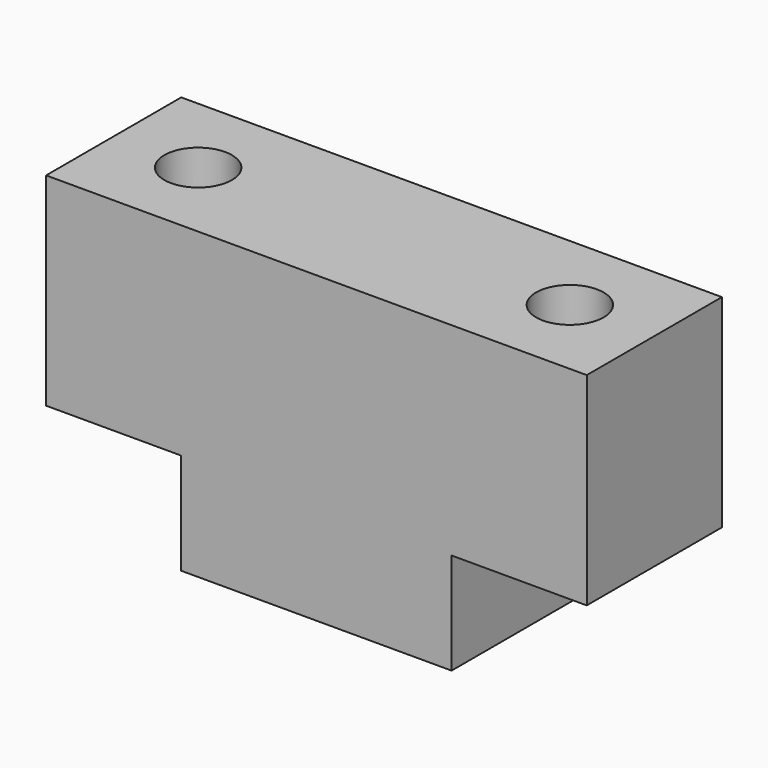
from build123d import *

# Parameters (mm, degrees)
F0_W     = 8
F0_H     = 3
F1_DEPTH = 2.5
F2_R     = 1
F3_DEPTH = 9.001


with BuildPart() as f1:
    # F0 (on Front) → F1 (new body, symmetric)
    with BuildSketch(Plane.XZ):
        Polygon((8, -3), (8, 3), (-8, 3), (-8, -3), (-4, -3), (4, -3), align=None)
        with Locations((0, -4.5)):
            Rectangle(F0_W, F0_H)
    extrude(amount=F1_DEPTH, both=True)

    # F2 (on face) → F3 (cut, through all)
    with BuildSketch(Plane.XY.offset(3)):
        with Locations((-5.5, 0)):
            Circle(F2_R)
        with Locations((5.5, 0)):
            Circle(F2_R)
    extrude(amount=-F3_DEPTH, mode=Mode.SUBTRACT)


solid = f1.part
